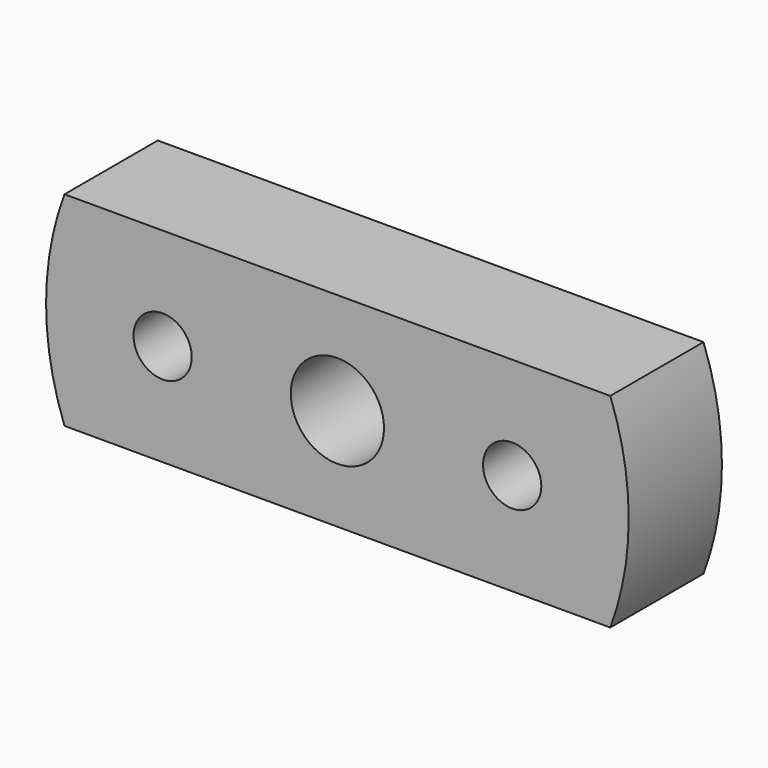
from build123d import *

# Parameters (mm, degrees)
F0_R     = 0.5
F0_R_2   = 0.8
F1_DEPTH = 2


with BuildPart() as f1:
    # F0 (on Front) → F1 (new body)
    with BuildSketch(Plane.XZ):
        with BuildLine():
            Line((4.683748, 1.75), (-4.683748, 1.75))
            ThreePointArc((-4.683748, 1.75), (-5, 0), (-4.683748, -1.75))
            Line((-4.683748, -1.75), (4.683748, -1.75))
            ThreePointArc((4.683748, -1.75), (5, 0), (4.683748, 1.75))
        make_face()
        with Locations((-3, 0)):
            Circle(F0_R, mode=Mode.SUBTRACT)
        Circle(F0_R_2, mode=Mode.SUBTRACT)
        with Locations((3, 0)):
            Circle(F0_R, mode=Mode.SUBTRACT)
    extrude(amount=F1_DEPTH)


solid = f1.part
